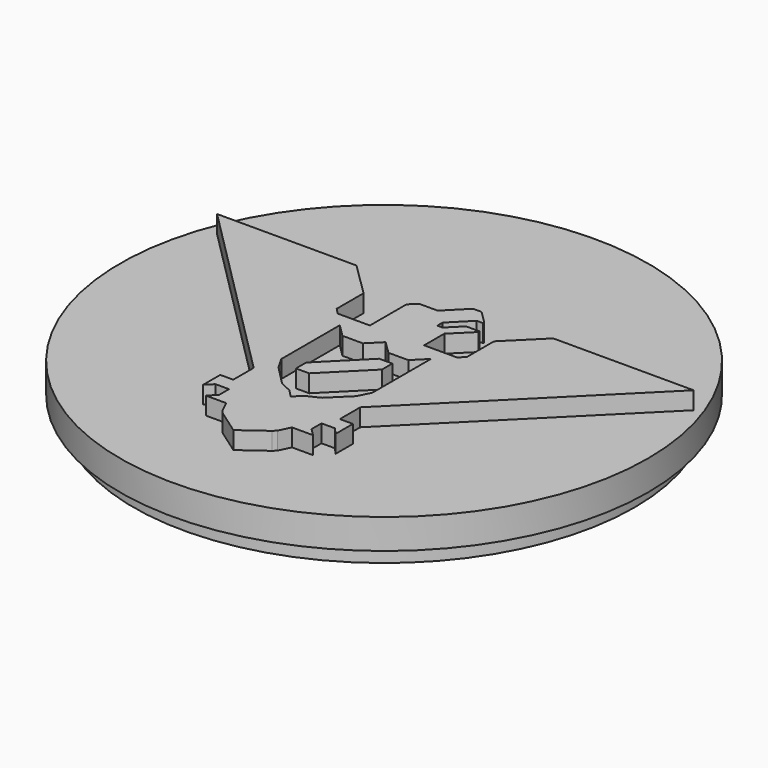
from build123d import *

# Parameters (mm, degrees)
F0_R     = 38.1
F1_DEPTH = 4.318
F3_DEPTH = 2.54
F4_R     = 36.159311
F5_DEPTH = 2.54


with BuildPart() as f1:
    # F0 (on Top) → F1 (new body)
    with BuildSketch(Plane.XY):
        Circle(F0_R)
    extrude(amount=F1_DEPTH)

    # F2 (on face) → F3 (join)
    with BuildSketch(Plane.XY.offset(4.318)):
        Polygon((-34.062076, 12.440001), (-7.371115, -14.31433), (-7.371115, -18.005043), (-9.246102, -18.000251), (-9.246102, -21.084584), (-8.250766, -20.103207), (-6.302369, -20.103207), (-6.302369, -21.906156), (-7.371115, -22.959914), (-4.425159, -22.959914), (-3.651459, -24.593657), (-3.340078, -25.019994), (0.323527, -27.597751), (3.852937, -25.019994), (4.285339, -24.593657), (5.079073, -22.959914), (8.107178, -22.959914), (7.050497, -21.906156), (7.050497, -20.103207), (8.963848, -20.103207), (9.898308, -21.094017), (9.898308, -18.005043), (8.015761, -18.005043), (8.015761, -14.323118), (34.762263, 12.40246), (14.500252, 12.40246), (9.73234, 7.673752), (9.73234, 2.785812), (8.937273, 1.987536), (4.18791, 1.987536), (4.18791, 5.622365), (6.957923, 8.360175), (6.957923, 8.555209), (4.987081, 8.555209), (3.098329, 6.672881), (2.346354, 6.672881), (2.346354, 7.621024), (5.079073, 10.368997), (6.00274, 10.368997), (6.00274, 10.558032), (4.160542, 12.40246), (2.923493, 12.40246), (0.086455, 9.55383), (-2.58904, 9.55383), (-3.608238, 8.555209), (-3.608238, 1.95247), (-8.261997, 1.95247), (-9.084493, 2.805168), (-9.084493, 7.649168), (-13.932226, 12.440001), align=None)
        Polygon((-6.296679, -10.668362), (-6.296679, -0.112185), (-4.45952, -1.943368), (-1.514731, -1.943368), (0.321967, -0.112185), (2.1779, -1.943368), (5.056894, -1.943368), (6.863146, -0.112185), (6.863146, -10.668362), (5.965335, -12.48001), (3.199338, -15.198641), (1.351123, -16.080152), (0.252056, -17.160398), (-0.809691, -16.080152), (-2.588448, -15.198641), (-5.260525, -12.48001), align=None, mode=Mode.SUBTRACT)
        Polygon((-1.665403, -11.440925), (4.168083, -5.593271), (4.168083, -3.724239), (2.277503, -3.724239), (-3.569818, -9.596433), (-3.569818, -11.440925), align=None)
    extrude(amount=F3_DEPTH)

    # F4 (on Top) → F5 (join)
    with BuildSketch(Plane.XY):
        Circle(F4_R)
        with BuildLine():
            ThreePointArc((5.794921, -30.256666), (-23.744145, 19.628106), (30.806606, 0))
            ThreePointArc((30.806606, 0), (28.080712, -12.669672), (20.385426, -23.097216))
            ThreePointArc((20.385426, -23.097216), (13.570817, -27.656462), (5.794921, -30.256666))
        make_face(mode=Mode.SUBTRACT)
        with BuildLine():
            Line((0, -22.444444), (5.794921, -30.256666))
            ThreePointArc((5.794921, -30.256666), (13.570817, -27.656462), (20.385426, -23.097216))
            Line((20.385426, -23.097216), (13.933389, -16.605597))
            Line((13.933389, -16.605597), (8.745673, -11.386055))
            Line((8.745673, -11.386055), (7.496308, -12.30919))
            Line((7.496308, -12.30919), (3.57206, -6.998139))
            Line((3.57206, -6.998139), (4.371937, -1.893155))
            Line((4.371937, -1.893155), (1.590109, 1.871753))
            Line((1.590109, 1.871753), (11.763458, 11.98307))
            Line((11.763458, 11.98307), (18.729663, 4.974128))
            Line((18.729663, 4.974128), (21.665659, 7.892222))
            Line((21.665659, 7.892222), (15.77972, 16.543103))
            Line((15.77972, 16.543103), (17.309812, 18.063865))
            Line((17.309812, 18.063865), (13.368929, 22.028926))
            Line((13.368929, 22.028926), (11.763458, 20.433245))
            Line((11.763458, 20.433245), (4.110456, 28.133198))
            Line((4.110456, 28.133198), (-0.682113, 23.369851))
            Line((-0.682113, 23.369851), (7.16014, 15.479486))
            Line((7.16014, 15.479486), (-3.149464, 5.232744))
            Line((-3.149464, 5.232744), (-6.889652, 7.478646))
            Line((-6.889652, 7.478646), (-9.403128, 6.031075))
            Line((-9.403128, 6.031075), (-9.92541, 4.087029))
            Line((-9.92541, 4.087029), (-12.478785, 2.839357))
            Line((-12.478785, 2.839357), (-13.059097, 0.808264))
            Line((-13.059097, 0.808264), (-15.003144, -0.468424))
            Line((-15.003144, -0.468424), (-15.003144, -1.251846))
            Line((-15.003144, -1.251846), (-16.387494, -3.31088))
            Line((-16.387494, -3.31088), (-14.87847, -6.998139))
            Line((-14.87847, -6.998139), (-18.722013, -10.818246))
            Line((-18.722013, -10.818246), (-14.710922, -14.853945))
            Line((-14.710922, -14.853945), (-11.050018, -11.215364))
            Line((-11.050018, -11.215364), (-8.104812, -14.178638))
            Line((-8.104812, -14.178638), (-4.658059, -15.363094))
            Line((-4.658059, -15.363094), (0.897256, -21.77888))
            Line((0.897256, -21.77888), (0, -22.444444))
        make_face()
    extrude(amount=-F5_DEPTH)


solid = f1.part
